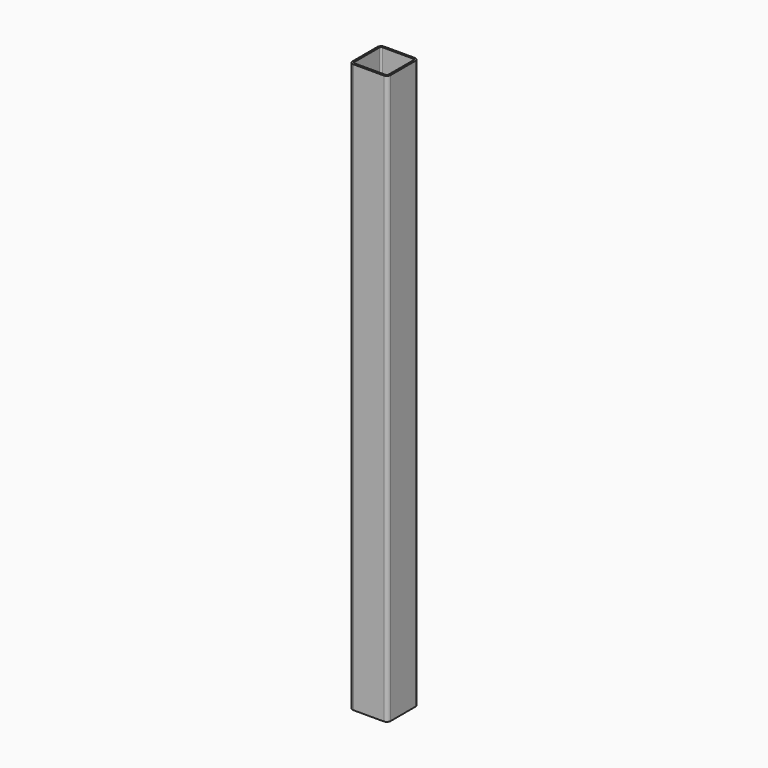
from build123d import *

# Parameters (mm, degrees)
F0_W     = 50
F0_H     = 50.8
F1_DEPTH = 750
F2_R     = 5
F3_T     = -2.5


with BuildPart() as f1:
    # F0 (on Top) → F1 (new body)
    with BuildSketch(Plane.XY):
        with Locations((0, -0.4)):
            Rectangle(F0_W, F0_H)
    extrude(amount=F1_DEPTH)

    # F2
    f2_edges = [f1.edges().sort_by_distance(p)[0] for p in [
        (25, 25, 375),
        (25, -25.8, 375),
        (-25, 25, 375),
        (-25, -25.8, 375),
    ]]
    fillet(f2_edges, radius=F2_R)

    # F3
    f3_openings = [f1.faces().sort_by_distance(p)[0] for p in [
        (0, -0.4, 750),
        (0, -0.4, 0),
    ]]
    offset(amount=F3_T, openings=f3_openings)


solid = f1.part
